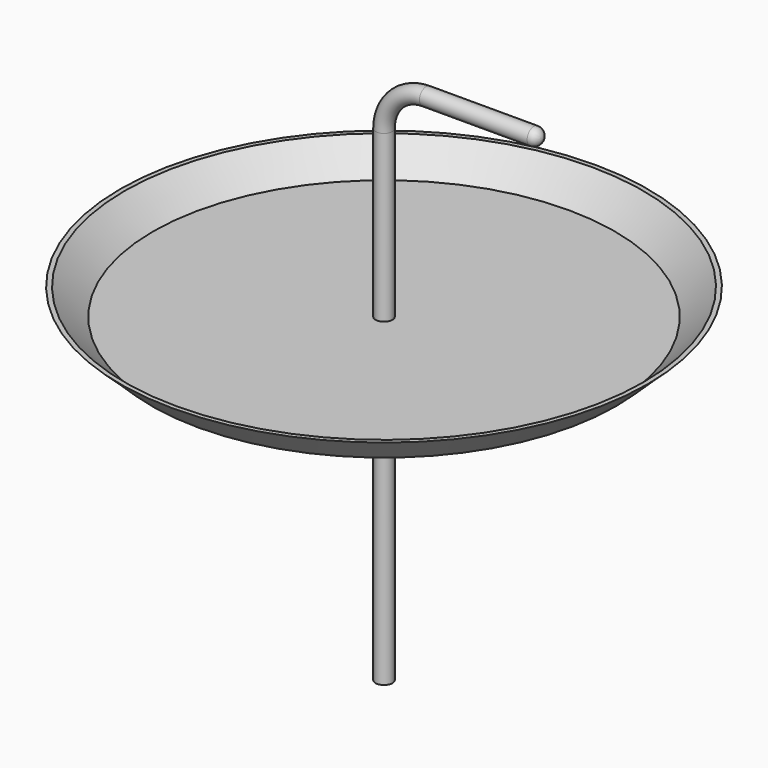
from build123d import *

# Parameters (mm, degrees)
F0_W      = 8
F0_H      = 157
F0_H_2    = 300
F2_FACE_R = 8


with BuildPart() as f1:
    # F0 (on Front) → F1 (revolve)
    with BuildSketch(Plane.XZ):
        Polygon((8, 303), (8, 300), (220, 300), (250, 328.17252), (245.617594, 328.17252), (218.812196, 303), align=None)
    revolve(axis=Axis((0, 0, 230), (0, 0, 1)))


with BuildPart() as f2:
    # F0 (on Front) → F2 (revolve)
    with BuildSketch(Plane.XZ):
        with Locations((4, 381.5)):
            Rectangle(F0_W, F0_H)
    revolve(axis=Axis((0, 0, 230), (0, 0, 1)))


with BuildPart() as f3:
    # F0 (on Front) → F3 (revolve)
    with BuildSketch(Plane.XZ):
        with BuildLine():
            Line((142, 500), (40, 500))
            Line((40, 500), (40, 492))
            Line((40, 492), (142, 492))
            ThreePointArc((142, 492), (147.656854, 494.343146), (150, 500))
            Line((150, 500), (142, 500))
        make_face()
    revolve(axis=Axis((91, 0, 500), (1, 0, 0)))


with BuildPart() as f4:
    # F0 (on Front) → F4 (revolve)
    with BuildSketch(Plane.XZ):
        with Locations((4, 150)):
            Rectangle(F0_W, F0_H_2)
    revolve(axis=Axis((0, 0, 230), (0, 0, 1)))


with BuildPart() as f5:
    # F5: sweep along a path in F0
    with BuildLine(Plane.XZ) as f5_path:
        ThreePointArc((0, 460), (11.715729, 488.284271), (40, 500))
    # F2_face (on face) → F5 (sweep)
    with BuildSketch(Plane.XY.offset(460)):
        Circle(F2_FACE_R)
    sweep(path=f5_path.line)


solid = Compound([f1.part, f2.part, f3.part, f4.part, f5.part])
